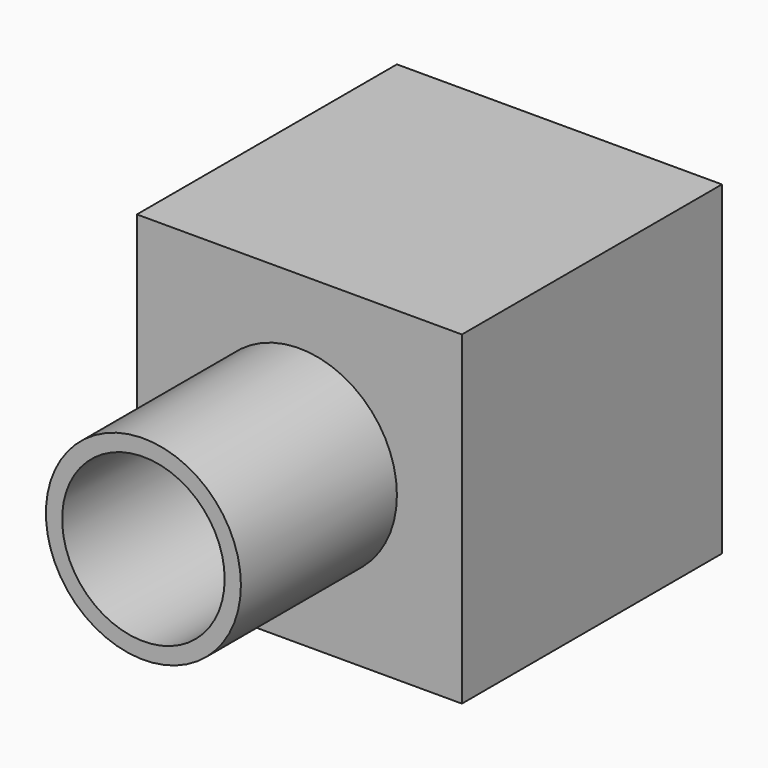
from build123d import *

# Parameters (mm, degrees)
F0_W     = 127
F0_H     = 127
F1_DEPTH = 127
F2_R     = 31.75
F3_DEPTH = 127.001
F4_R     = 38.1
F4_R_2   = 31.75
F5_DEPTH = 76.2


with BuildPart() as f1:
    # F0 (on Front) → F1 (new body)
    with BuildSketch(Plane.XZ):
        Rectangle(F0_W, F0_H)
    extrude(amount=F1_DEPTH)

    # F2 (on face) → F3 (cut, through all)
    with BuildSketch(Plane.XZ.offset(127)):
        Circle(F2_R)
    extrude(amount=-F3_DEPTH, mode=Mode.SUBTRACT)

    # F4 (on face) → F5 (join)
    with BuildSketch(Plane.XZ.offset(127)):
        Circle(F4_R)
        Circle(F4_R_2, mode=Mode.SUBTRACT)
    extrude(amount=F5_DEPTH)


solid = f1.part
